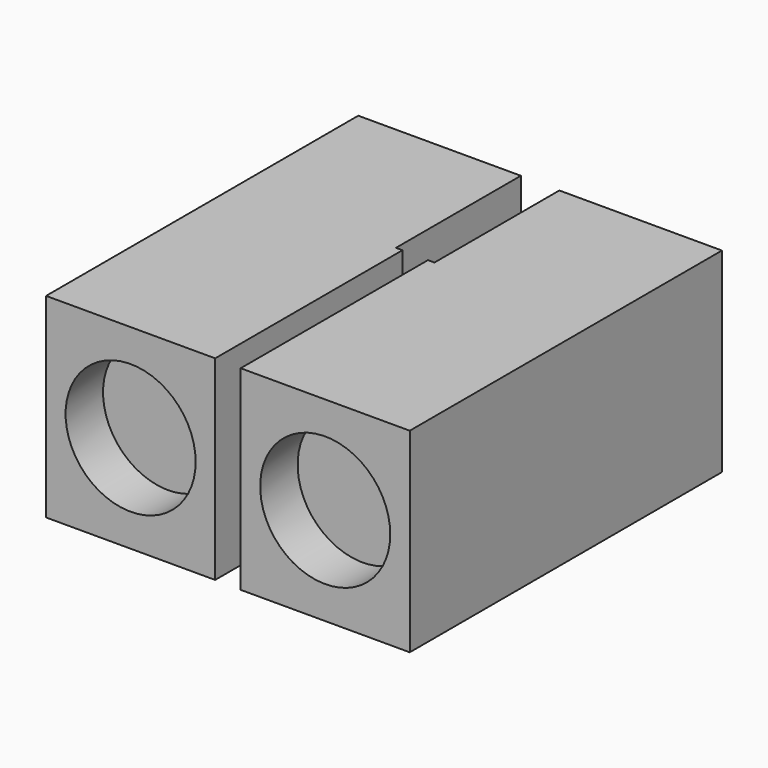
from build123d import *

# Parameters (mm, degrees)
F0_W     = 6.5
F0_H     = 2.5
F0_W_2   = 6.25
F0_H_2   = 5
F1_DEPTH = 7.5
F2_R     = 2.5
F3_R     = 2.5
F4_DEPTH = 1.8


with BuildPart() as f1:
    # F0 (on Top) → F1 (new body)
    with BuildSketch(Plane.XY):
        with Locations((-3, -13.75)):
            Rectangle(F0_W, F0_H)
        with Locations((4.5, -13.774836)):
            Rectangle(F0_W, F0_H)
        Polygon((0, -6), (0, -5), (-6.25, -5), (-6.25, -12.5), (0.25, -12.5), (0.25, -6), align=None)
        Polygon((7.75, -5.024836), (1.5, -5.024836), (1.5, -6.024836), (1.25, -6.024836), (1.25, -12.524836), (7.75, -12.524836), align=None)
        with Locations((4.625, -2.524836)):
            Rectangle(F0_W_2, F0_H_2)
        with Locations((-3.125, -2.5)):
            Rectangle(F0_W_2, F0_H_2)
    extrude(amount=F1_DEPTH)

    # F2 (on face) + F3 (on face) → F4 (cut)
    with BuildSketch(Plane.XZ.offset(15)):
        with Locations((-3, 3.75)):
            Circle(F2_R)
    with BuildSketch(Plane.XZ.offset(15.024836)):
        with Locations((4.5, 3.75)):
            Circle(F3_R)
    extrude(amount=-F4_DEPTH, mode=Mode.SUBTRACT)


solid = f1.part
